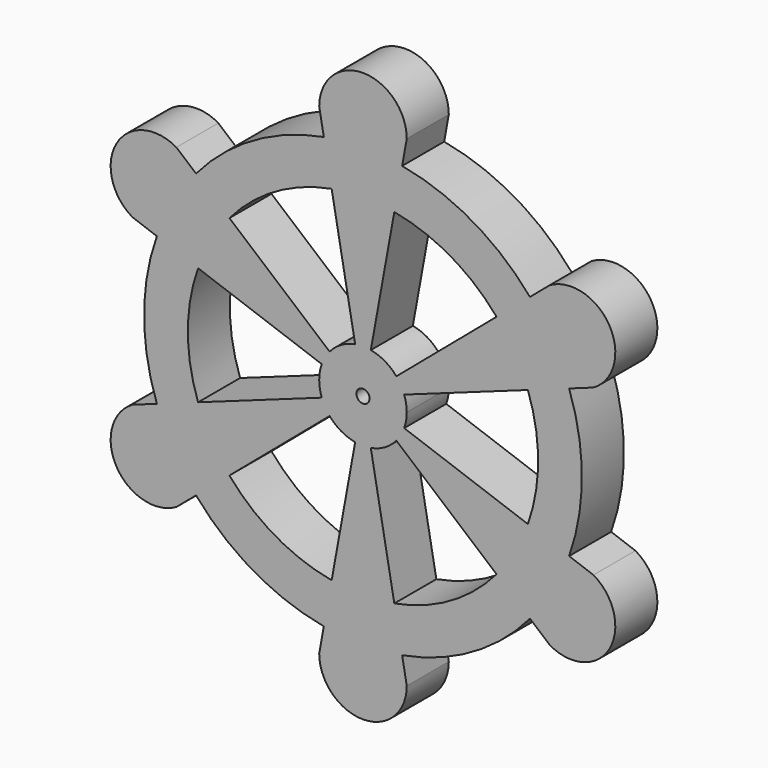
from build123d import *

# Parameters (mm, degrees)
F1_DEPTH = 1.2
F2_SCALE = 10
F4_D     = 3


with BuildPart() as f1:
    # F0 (on Front) → F1 (new body)
    with BuildSketch(Plane.XZ):
        with BuildLine():
            Line((-3.7659962211, 1.3480624848), (-4.7074952763, 1.685078106))
            ThreePointArc((-4.7074952763, 1.685078106), (-5, 0), (-4.7074952763, -1.685078106))
            Line((-4.7074952763, -1.685078106), (-3.7659962211, -1.3480624848))
            ThreePointArc((-3.7659962211, -1.3480624848), (-4, 0), (-3.7659962211, 1.3480624848))
        make_face()
        with BuildLine():
            Line((-3.0504544683, 2.5874171556), (-3.8130680853, 3.2342714445))
            Line((-3.8130680853, 3.2342714445), (-4.2631397208, 3.6160254038))
            ThreePointArc((-4.2631397208, 3.6160254038), (-5.6291651246, 3.25), (-5.2631397208, 1.8839745962))
            Line((-5.2631397208, 1.8839745962), (-4.7074952763, 1.685078106))
            Line((-4.7074952763, 1.685078106), (-3.7659962211, 1.3480624848))
            Line((-3.7659962211, 1.3480624848), (-0.9414990553, 0.3370156212))
            ThreePointArc((-0.9414990553, 0.3370156212), (-0.8660254038, 0.5), (-0.7626136171, 0.6468542889))
            Line((-0.7626136171, 0.6468542889), (-3.0504544683, 2.5874171556))
        make_face()
        with BuildLine():
            Line((-0.7155417528, 3.9354796404), (-0.894427191, 4.9193495505))
            ThreePointArc((-0.894427191, 4.9193495505), (-2.5, 4.3301270189), (-3.8130680853, 3.2342714445))
            Line((-3.8130680853, 3.2342714445), (-3.0504544683, 2.5874171556))
            ThreePointArc((-3.0504544683, 2.5874171556), (-2, 3.4641016151), (-0.7155417528, 3.9354796404))
        make_face()
        with BuildLine():
            Line((-1, 5.5), (-0.894427191, 4.9193495505))
            Line((-0.894427191, 4.9193495505), (-0.7155417528, 3.9354796404))
            Line((-0.7155417528, 3.9354796404), (-0.1788854382, 0.9838699101))
            ThreePointArc((-0.1788854382, 0.9838699101), (0, 1), (0.1788854382, 0.9838699101))
            Line((0.1788854382, 0.9838699101), (0.7155417528, 3.9354796404))
            Line((0.7155417528, 3.9354796404), (0.894427191, 4.9193495505))
            Line((0.894427191, 4.9193495505), (1, 5.5))
            ThreePointArc((1, 5.5), (0, 6.5), (-1, 5.5))
        make_face()
        with BuildLine():
            ThreePointArc((3.8130680853, 3.2342714445), (2.5, 4.3301270189), (0.894427191, 4.9193495505))
            Line((0.894427191, 4.9193495505), (0.7155417528, 3.9354796404))
            ThreePointArc((0.7155417528, 3.9354796404), (2, 3.4641016151), (3.0504544683, 2.5874171556))
            Line((3.0504544683, 2.5874171556), (3.8130680853, 3.2342714445))
        make_face()
        with BuildLine():
            Line((3.0504544683, 2.5874171556), (0.7626136171, 0.6468542889))
            ThreePointArc((0.7626136171, 0.6468542889), (0.8660254038, 0.5), (0.9414990553, 0.3370156212))
            Line((0.9414990553, 0.3370156212), (3.7659962211, 1.3480624848))
            Line((3.7659962211, 1.3480624848), (4.7074952763, 1.685078106))
            Line((4.7074952763, 1.685078106), (5.2631397208, 1.8839745962))
            ThreePointArc((5.2631397208, 1.8839745962), (5.6291651246, 3.25), (4.2631397208, 3.6160254038))
            Line((4.2631397208, 3.6160254038), (3.8130680853, 3.2342714445))
            Line((3.8130680853, 3.2342714445), (3.0504544683, 2.5874171556))
        make_face()
        with BuildLine():
            Line((4.7074952763, 1.685078106), (3.7659962211, 1.3480624848))
            ThreePointArc((3.7659962211, 1.3480624848), (4, 0), (3.7659962211, -1.3480624848))
            Line((3.7659962211, -1.3480624848), (4.7074952763, -1.685078106))
            ThreePointArc((4.7074952763, -1.685078106), (5, 0), (4.7074952763, 1.685078106))
        make_face()
        with BuildLine():
            Line((3.7659962211, -1.3480624848), (0.9414990553, -0.3370156212))
            ThreePointArc((0.9414990553, -0.3370156212), (0.8660254038, -0.5), (0.7626136171, -0.6468542889))
            Line((0.7626136171, -0.6468542889), (3.0504544683, -2.5874171556))
            Line((3.0504544683, -2.5874171556), (3.8130680853, -3.2342714445))
            Line((3.8130680853, -3.2342714445), (4.2631397208, -3.6160254038))
            ThreePointArc((4.2631397208, -3.6160254038), (5.6291651246, -3.25), (5.2631397208, -1.8839745962))
            Line((5.2631397208, -1.8839745962), (4.7074952763, -1.685078106))
            Line((4.7074952763, -1.685078106), (3.7659962211, -1.3480624848))
        make_face()
        with BuildLine():
            ThreePointArc((3.0504544683, -2.5874171556), (2, -3.4641016151), (0.7155417528, -3.9354796404))
            Line((0.7155417528, -3.9354796404), (0.894427191, -4.9193495505))
            ThreePointArc((0.894427191, -4.9193495505), (2.5, -4.3301270189), (3.8130680853, -3.2342714445))
            Line((3.8130680853, -3.2342714445), (3.0504544683, -2.5874171556))
        make_face()
        with BuildLine():
            ThreePointArc((0.1788854382, -0.9838699101), (0, -1), (-0.1788854382, -0.9838699101))
            Line((-0.1788854382, -0.9838699101), (-0.7155417528, -3.9354796404))
            Line((-0.7155417528, -3.9354796404), (-0.894427191, -4.9193495505))
            Line((-0.894427191, -4.9193495505), (-1, -5.5))
            ThreePointArc((-1, -5.5), (0, -6.5), (1, -5.5))
            Line((1, -5.5), (0.894427191, -4.9193495505))
            Line((0.894427191, -4.9193495505), (0.7155417528, -3.9354796404))
            Line((0.7155417528, -3.9354796404), (0.1788854382, -0.9838699101))
        make_face()
        with BuildLine():
            ThreePointArc((-0.7626136171, -0.6468542889), (-0.8660254038, -0.5), (-0.9414990553, -0.3370156212))
            Line((-0.9414990553, -0.3370156212), (-3.7659962211, -1.3480624848))
            Line((-3.7659962211, -1.3480624848), (-4.7074952763, -1.685078106))
            Line((-4.7074952763, -1.685078106), (-5.2631397208, -1.8839745962))
            ThreePointArc((-5.2631397208, -1.8839745962), (-5.6291651246, -3.25), (-4.2631397208, -3.6160254038))
            Line((-4.2631397208, -3.6160254038), (-3.8130680853, -3.2342714445))
            Line((-3.8130680853, -3.2342714445), (-3.0504544683, -2.5874171556))
            Line((-3.0504544683, -2.5874171556), (-0.7626136171, -0.6468542889))
        make_face()
        with BuildLine():
            ThreePointArc((0.1788854382, 0.9838699101), (0, 1), (-0.1788854382, 0.9838699101))
            ThreePointArc((-0.1788854382, 0.9838699101), (-0.5, 0.8660254038), (-0.7626136171, 0.6468542889))
            ThreePointArc((-0.7626136171, 0.6468542889), (-0.8660254038, 0.5), (-0.9414990553, 0.3370156212))
            ThreePointArc((-0.9414990553, 0.3370156212), (-1, 0), (-0.9414990553, -0.3370156212))
            ThreePointArc((-0.9414990553, -0.3370156212), (-0.8660254038, -0.5), (-0.7626136171, -0.6468542889))
            ThreePointArc((-0.7626136171, -0.6468542889), (-0.5, -0.8660254038), (-0.1788854382, -0.9838699101))
            ThreePointArc((-0.1788854382, -0.9838699101), (0, -1), (0.1788854382, -0.9838699101))
            ThreePointArc((0.1788854382, -0.9838699101), (0.5, -0.8660254038), (0.7626136171, -0.6468542889))
            ThreePointArc((0.7626136171, -0.6468542889), (0.8660254038, -0.5), (0.9414990553, -0.3370156212))
            ThreePointArc((0.9414990553, -0.3370156212), (0.9852662217, -0.1710276947), (1, 0))
            ThreePointArc((1, 0), (0.9852662217, 0.1710276947), (0.9414990553, 0.3370156212))
            ThreePointArc((0.9414990553, 0.3370156212), (0.8660254038, 0.5), (0.7626136171, 0.6468542889))
            ThreePointArc((0.7626136171, 0.6468542889), (0.5, 0.8660254038), (0.1788854382, 0.9838699101))
        make_face()
        with BuildLine():
            ThreePointArc((-0.7155417528, -3.9354796404), (-2, -3.4641016151), (-3.0504544683, -2.5874171556))
            Line((-3.0504544683, -2.5874171556), (-3.8130680853, -3.2342714445))
            ThreePointArc((-3.8130680853, -3.2342714445), (-2.5, -4.3301270189), (-0.894427191, -4.9193495505))
            Line((-0.894427191, -4.9193495505), (-0.7155417528, -3.9354796404))
        make_face()
    extrude(amount=F1_DEPTH)


with BuildPart() as f1_1:
    # F2: moved
    add(f1.part.scale(F2_SCALE))

    # F4 (through all)
    with Locations(Plane(origin=(0, 0, 0), x_dir=(1, 0, 0), z_dir=(0, 1, 0))):
        with Locations((0, 0)):
            Hole(F4_D / 2)


solid = f1_1.part
